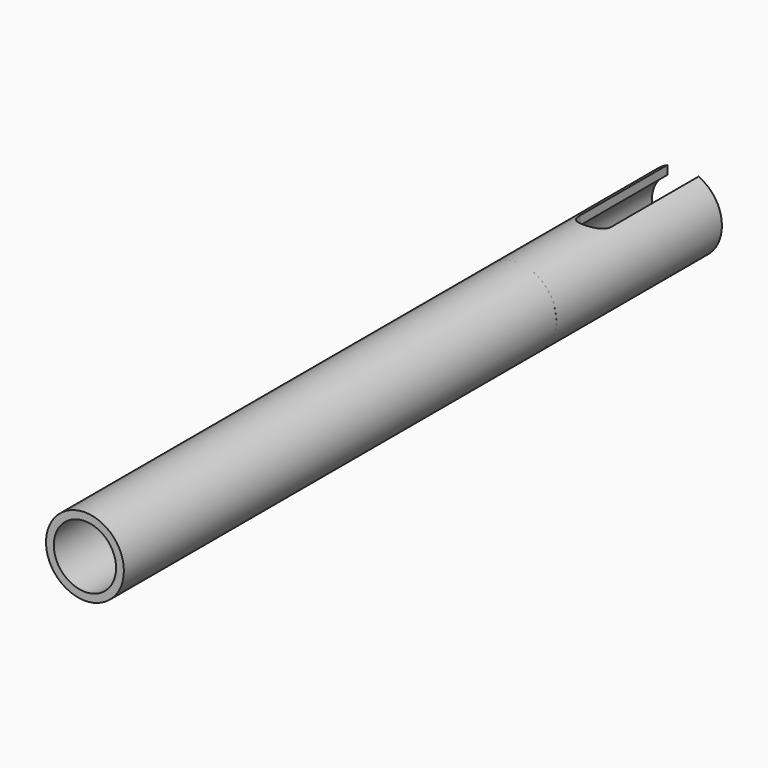
from build123d import *

# Parameters (mm, degrees)
F0_R     = 15.875
F0_R_2   = 12.7
F1_DEPTH = 304.8
F3_DEPTH = 25.4
F4_W     = 0.254
F4_H     = 0.254


with BuildPart() as f1:
    # F0 (on Front) → F1 (new body)
    with BuildSketch(Plane.XZ):
        Circle(F0_R)
        Circle(F0_R_2, mode=Mode.SUBTRACT)
    extrude(amount=F1_DEPTH)

    # F2 (on Top) → F3 (cut, symmetric)
    with BuildSketch(Plane.XY):
        with BuildLine():
            Line((6.35, 0), (-6.35, 0))
            Line((-6.35, 0), (-6.35, -44.45))
            ThreePointArc((-6.35, -44.45), (0, -50.8), (6.35, -44.45))
            Line((6.35, -44.45), (6.35, 0))
        make_face()
    extrude(amount=F3_DEPTH, both=True, mode=Mode.SUBTRACT)


with BuildPart() as f5:
    # F4 (on Right) → F5 (revolve)
    with BuildSketch(Plane.YZ):
        with Locations((-84.2645, -15.748)):
            Rectangle(F4_W, F4_H)
    revolve(axis=Axis((0, -42.06875, 0), (0, -1, 0)))


solid = Compound([f1.part, f5.part])
